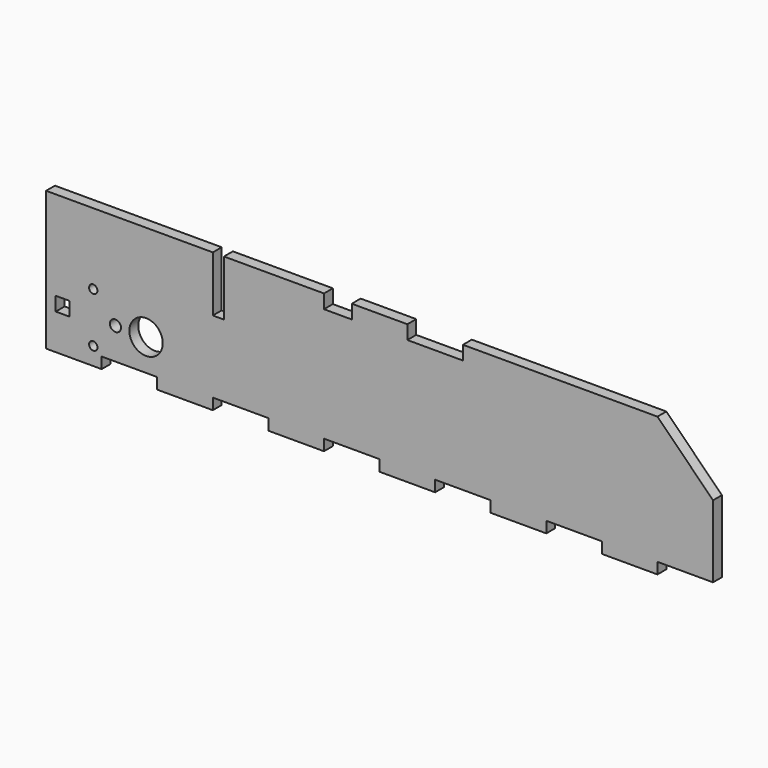
from build123d import *

# Parameters (mm, degrees)
PAD_DEPTH       = 4
SKETCH001_R     = 1.5
SKETCH001_R_2   = 2
SKETCH001_R_3   = 6
SKETCH001_W     = 5
SKETCH001_H     = 5
SKETCH001_W_2   = 10
SKETCH001_W_3   = 20
POCKET_DEPTH    = 5
SKETCH002_W     = 20
SKETCH002_H     = 4
POCKET001_DEPTH = 5
SKETCH003_W     = 4
SKETCH003_H     = 20
POCKET002_DEPTH = 5


with BuildPart() as part:
    # Sketch → Pad (new body)
    with BuildSketch(Plane.XZ):
        Polygon((0, 0), (240, 0), (240, 30), (220, 50), (0, 50), align=None)
    extrude(amount=PAD_DEPTH)

    # Sketch001 (on Face7 of Pad) → Pocket (cut)
    with BuildSketch(Plane.XZ.offset(4)):
        with Locations((16.976847, 24.364438)):
            Circle(SKETCH001_R)
        with Locations((24.976847, 15.364438)):
            Circle(SKETCH001_R_2)
        with Locations((35.976847, 15.364438)):
            Circle(SKETCH001_R_3)
        with Locations((16.976847, 6.364438)):
            Circle(SKETCH001_R)
        with Locations((5.976847, 15.364438)):
            Rectangle(SKETCH001_W, SKETCH001_H)
        with Locations((105, 47.5)):
            Rectangle(SKETCH001_W_2, SKETCH001_H)
        with Locations((140, 47.5)):
            Rectangle(SKETCH001_W_3, SKETCH001_H)
    extrude(amount=-POCKET_DEPTH, mode=Mode.SUBTRACT)

    # Sketch002 (on Face5 of Pocket) → Pocket001 (cut)
    with BuildSketch(Plane.XZ.offset(4)):
        with Locations((30, 2)):
            Rectangle(SKETCH002_W, SKETCH002_H)
        with Locations((70, 2)):
            Rectangle(SKETCH002_W, SKETCH002_H)
        with Locations((110, 2)):
            Rectangle(SKETCH002_W, SKETCH002_H)
        with Locations((150, 2)):
            Rectangle(SKETCH002_W, SKETCH002_H)
        with Locations((190, 2)):
            Rectangle(SKETCH002_W, SKETCH002_H)
        with Locations((230, 2)):
            Rectangle(SKETCH002_W, SKETCH002_H)
    extrude(amount=-POCKET001_DEPTH, mode=Mode.SUBTRACT)

    # Sketch003 (on Face4 of Pocket001) → Pocket002 (cut)
    with BuildSketch(Plane.XZ.offset(4)):
        with Locations((62, 40)):
            Rectangle(SKETCH003_W, SKETCH003_H)
    extrude(amount=-POCKET002_DEPTH, mode=Mode.SUBTRACT)


solid = part.part
